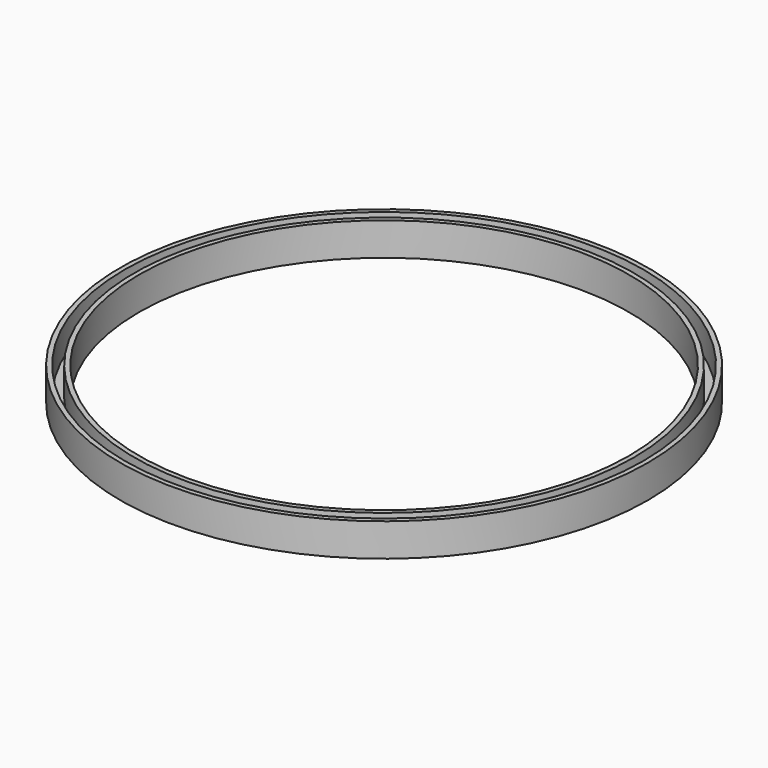
from build123d import *

# Parameters (mm, degrees)
F0_R     = 28
F0_R_2   = 27.5
F0_R_3   = 26.5
F0_R_4   = 26
F1_DEPTH = 3
F2_R     = 28
F2_R_2   = 26
F3_DEPTH = 0.5


with BuildPart() as f1:
    # F0 (on Top) → F1 (new body)
    with BuildSketch(Plane.XY):
        Circle(F0_R)
        Circle(F0_R_2, mode=Mode.SUBTRACT)
        Circle(F0_R_3)
        Circle(F0_R_4, mode=Mode.SUBTRACT)
    extrude(amount=F1_DEPTH)

    # F2 (on face) → F3 (join)
    with BuildSketch(Plane(origin=(0, 0, 0), x_dir=(1, 0, 0), z_dir=(0, 0, -1))):
        Circle(F2_R)
        Circle(F2_R_2, mode=Mode.SUBTRACT)
    extrude(amount=F3_DEPTH)


solid = f1.part
